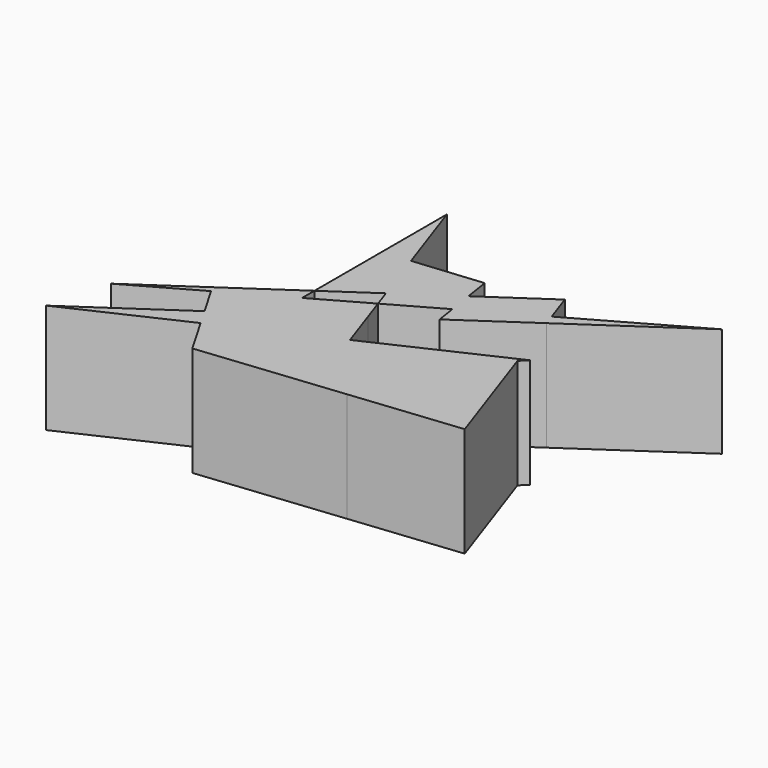
from build123d import *

# Parameters (mm, degrees)
F1_DEPTH = 25.4


with BuildPart() as f1:
    # F0 (on Top) → F1 (new body)
    with BuildSketch(Plane.XY):
        Polygon((0, 51.9645959139), (0, 33.0477882455), (6.3190941777, 33.6593130662), align=None)
        Polygon((39.8338484141, 32.5042771882), (40.7262031899, 29.9192853981), (67.0118629932, 47.8574708104), align=None)
        Polygon((6.3190941777, 33.6593130662), (10.7214472183, 20.9064856295), (23.0850401447, 29.3438017911), (22.1757106483, 35.193823278), align=None)
        Polygon((23.0850401447, 29.3438017911), (23.9854272391, 23.5513097741), (39.8338484141, 32.5042771882), (37.5234631144, 39.1970491598), align=None)
        Polygon((0, 16.7117509991), (0, 13.5898228739), (10.7214472183, 20.9064856295), (6.3190941777, 33.6593130662), (0, 33.0477882455), align=None)
        Polygon((10.7214472183, 20.9064856295), (12.121948305, 16.849485085), (23.9854272391, 23.5513097741), (23.0850401447, 29.3438017911), align=None)
        Polygon((23.9854272391, 23.5513097741), (24.696028294, 18.979774972), (40.7262031899, 29.9192853981), (39.8338484141, 32.5042771882), align=None)
    extrude(amount=F1_DEPTH)


with BuildPart() as f1b:
    # F0 (on Top) → F1, piece 2 (new body)
    with BuildSketch(Plane.XY):
        Polygon((47.5029945374, 16.7117509991), (45.5919186425, 15.8241801328), (45.8490579484, 15.0792936674), align=None)
        Polygon((-8.1873361963, -9.15279746), (-10.5483096594, -5.0721025031), (-34.2973023653, -21.2791841477), align=None)
        Polygon((-30.5324308574, -7.2464966215), (-14.5228667183, 1.7975024285), (-15.3032817192, 3.1463678893), align=None)
        Polygon((28.0353326342, -2.5030892903), (29.885675846, -14.4069674664), (55.1183817083, -11.772275317), (45.8490579484, 15.0792936674), align=None)
        Polygon((-10.5483096594, -5.0721025031), (0, 2.1264055759), (0, 10.0016478795), (-14.5228667183, 1.7975024285), align=None)
        Polygon((17.0516344271, 2.5690682597), (-8.1873361963, -9.15279746), (-3.1515778974, -17.8565774113), (29.885675846, -14.4069674664), (28.0353326342, -2.5030892903), (21.1489293724, -9.3000605702), align=None)
        Polygon((-14.5228667183, 1.7975024285), (0, 10.0016478795), (0, 13.5898228739), (-15.3032817192, 3.1463678893), align=None)
        Polygon((45.5919186425, 15.8241801328), (26.5604541239, 6.9852985927), (28.0353326342, -2.5030892903), (45.8490579484, 15.0792936674), align=None)
        Polygon((13.9241872938, 11.6287218678), (0, 2.1264055759), (-10.5483096594, -5.0721025031), (-8.1873361963, -9.15279746), (17.0516344271, 2.5690682597), align=None)
        Polygon((0, 10.0016478795), (0, 2.1264055759), (13.9241872938, 11.6287218678), (12.121948305, 16.849485085), align=None)
        Polygon((26.5604541239, 6.9852985927), (17.0516344271, 2.5690682597), (21.1489293724, -9.3000605702), (28.0353326342, -2.5030892903), align=None)
    extrude(amount=F1_DEPTH)


solid = Compound([f1.part, f1b.part])
